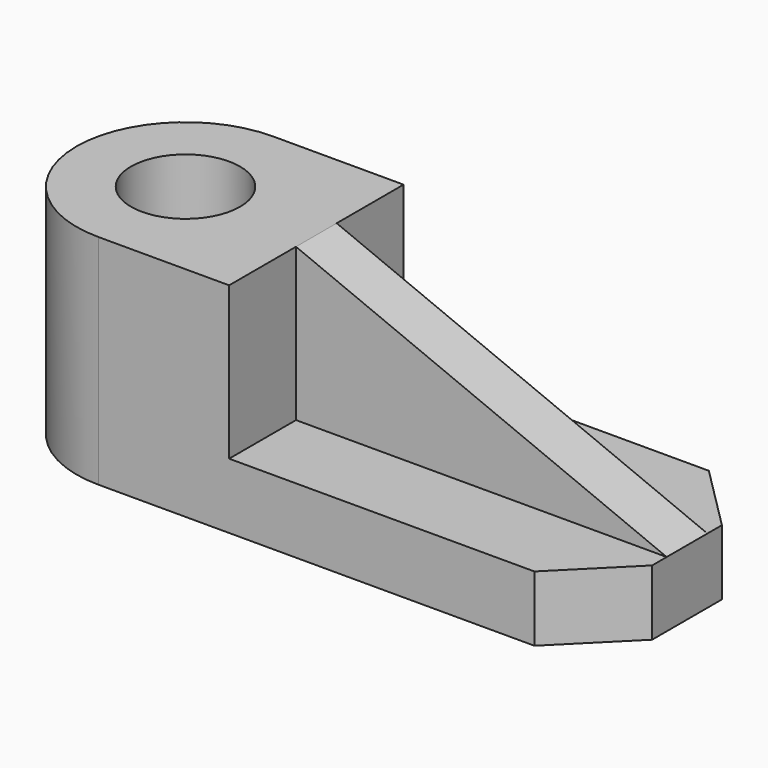
from build123d import *

# Parameters (mm, degrees)
F1_DEPTH = 9
F3_DEPTH = 21
F4_R     = 7.5
F5_DEPTH = 30
F6_W     = 51
F6_H     = 7
F7_DEPTH = 21
F9_DEPTH = 25


with BuildPart() as f1:
    # F0 (on Top) → F1 (new body)
    with BuildSketch(Plane.XY):
        with BuildLine():
            Line((60, 0), (0, 0))
            ThreePointArc((0, 0), (-15, -15), (0, -30))
            Line((0, -30), (60, -30))
            Line((60, -30), (69, -21))
            Line((69, -21), (69, -9))
            Line((69, -9), (60, 0))
        make_face()
    extrude(amount=F1_DEPTH)

    # F2 (on face) → F3 (join)
    with BuildSketch(Plane.XY.offset(9)):
        with BuildLine():
            Line((18, -30), (18, 0))
            Line((18, 0), (0, 0))
            ThreePointArc((0, 0), (-15, -15), (0, -30))
            Line((0, -30), (18, -30))
        make_face()
    extrude(amount=F3_DEPTH)

    # F4 (on face) → F5 (cut)
    with BuildSketch(Plane.XY.offset(30)):
        with Locations((0, -15)):
            Circle(F4_R)
    extrude(amount=-F5_DEPTH, mode=Mode.SUBTRACT)

    # F6 (on face) → F7 (join)
    with BuildSketch(Plane.XY.offset(9)):
        with Locations((43.5, -15)):
            Rectangle(F6_W, F6_H)
    extrude(amount=F7_DEPTH)

    # F8 (on face) → F9 (cut)
    with BuildSketch(Plane.XZ.offset(18.5)):
        Polygon((69, 30), (18, 30), (69, 9), align=None)
    extrude(amount=-F9_DEPTH, mode=Mode.SUBTRACT)


solid = f1.part
